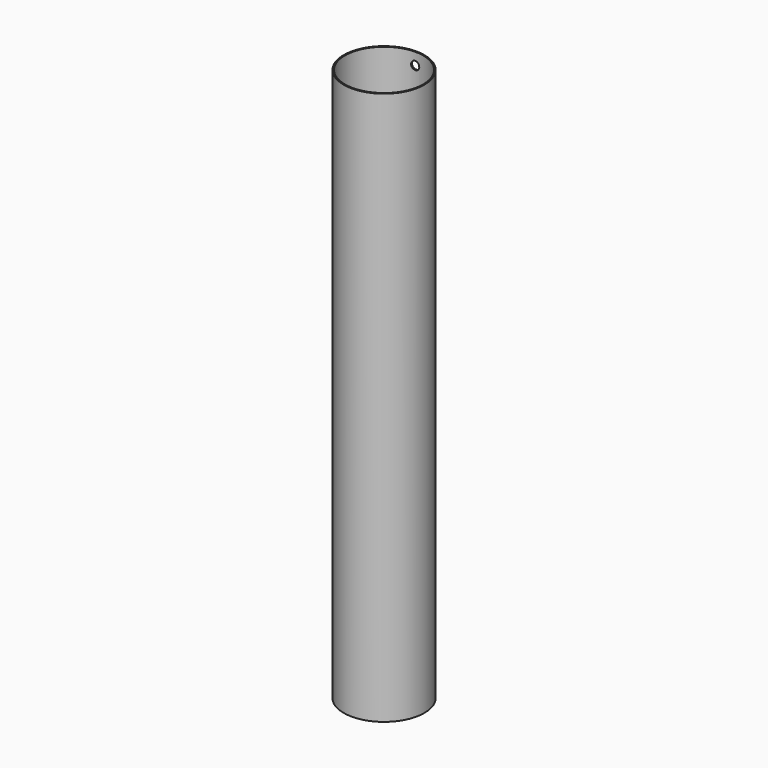
from build123d import *

# Parameters (mm, degrees)
F0_R     = 88.9
F0_R_2   = 86.233
F1_DEPTH = 1219.2
F2_R     = 9.017
F3_DEPTH = 203.2


with BuildPart() as f1:
    # F0 (on Top) → F1 (new body)
    with BuildSketch(Plane.XY):
        Circle(F0_R)
        Circle(F0_R_2, mode=Mode.SUBTRACT)
    extrude(amount=F1_DEPTH)

    # F2 (on Front) → F3 (cut)
    with BuildSketch(Plane.XZ):
        with Locations((0, 1192.7205)):
            Circle(F2_R)
        with Locations((0, 26.4795)):
            Circle(F2_R)
    extrude(amount=-F3_DEPTH, mode=Mode.SUBTRACT)


solid = f1.part
